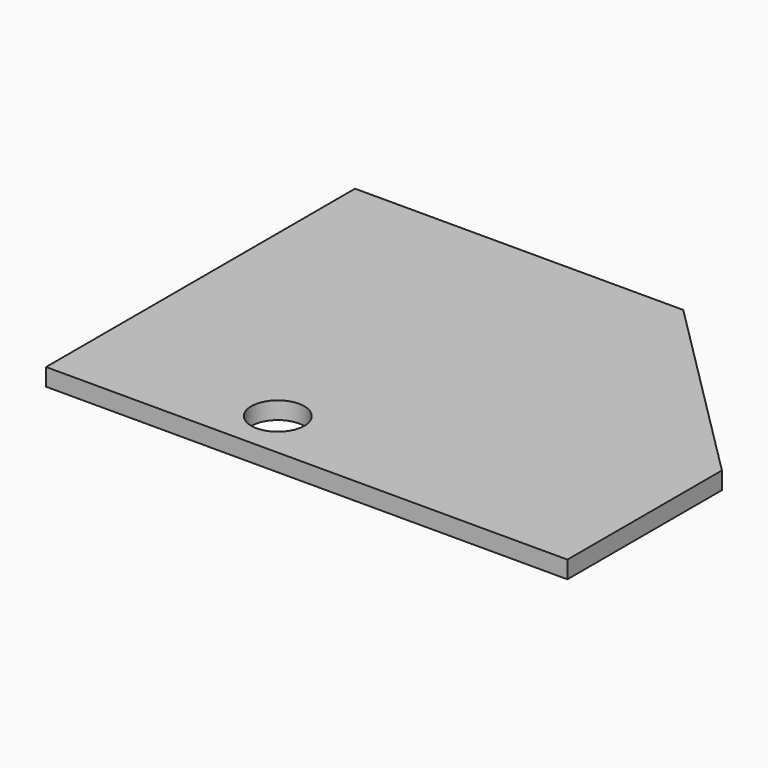
from build123d import *

# Parameters (mm, degrees)
F0_R     = 27.5
F1_DEPTH = 18


with BuildPart() as f1:
    # F0 (on Top) → F1 (new body)
    with BuildSketch(Plane.XY):
        Polygon((0, 400), (0, 0), (540, 0), (540, 200), (340, 400), align=None)
        with Locations((200, 50)):
            Circle(F0_R, mode=Mode.SUBTRACT)
    extrude(amount=F1_DEPTH)


solid = f1.part
